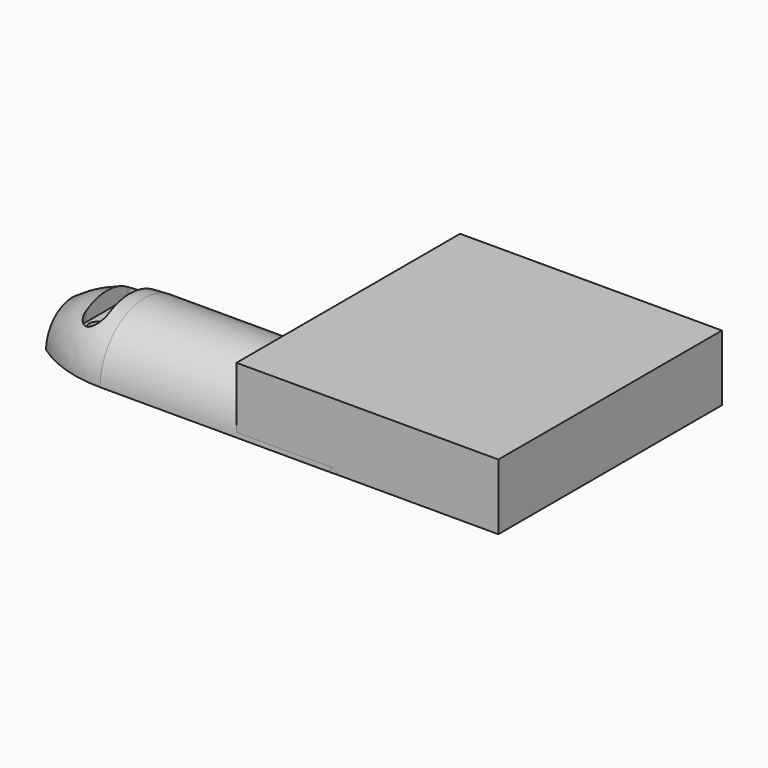
from build123d import *

# Parameters (mm, degrees)
SKETCH008_W         = 79.607547
SKETCH008_H         = 84.957516
PAD002_DEPTH        = 20
SKETCH009_W         = 73.187564
SKETCH009_H         = 77.253553
POCKET004_DEPTH     = 14
REVOLUTION_ANGLE    = -180
SKETCH001_W         = 35
SKETCH001_H         = 1.5
PAD_DEPTH           = 1
SKETCH002_W         = 35
SKETCH002_H         = 1.5
POCKET_DEPTH        = 1
SKETCH003_R         = 4
PAD001_DEPTH        = 8
SKETCH004_W         = 1
SKETCH004_H         = 9.534319
REVOLUTION001_ANGLE = -180
SKETCH005_R         = 1
POCKET001_DEPTH     = 7
SKETCH006_R         = 2.5
POCKET002_DEPTH     = 10
POCKET003_DEPTH     = 10


with BuildPart() as body001:
    # Sketch008 → Pad002 (new body)
    with BuildSketch(Plane.XY):
        with Locations((46.254125, -8.464853)):
            Rectangle(SKETCH008_W, SKETCH008_H)
    extrude(amount=PAD002_DEPTH)

    # Sketch009 → Pocket004 (cut)
    with BuildSketch(Plane.XY):
        with Locations((46.664473, -8.115113)):
            Rectangle(SKETCH009_W, SKETCH009_H)
    extrude(amount=POCKET004_DEPTH, mode=Mode.SUBTRACT)


with BuildPart() as body001_1:
    # Body001 placement: moved
    add(body001.part.moved(Location((0, 34, 0))))


with BuildPart() as fusion:
    # Sketch → Revolution (revolve)
    with BuildSketch(Plane.XY):
        with BuildLine():
            Line((-35, -17), (35, -17))
            ThreePointArc((35, -17), (46.543396, -15.207817), (57, -10))
            Line((57, -10), (52, -10))
            Line((52, -10), (52, -7.5))
            Line((52, -7.5), (50, -7.5))
            Line((50, -7.5), (50, -11.758585))
            ThreePointArc((48, -12.600664), (49.00633, -12.194658), (50, -11.758585))
            Line((48, -9.5), (48, -12.600664))
            Line((35, -9.5), (48, -9.5))
            Line((35, -14), (35, -9.5))
            Line((35, -14), (-35, -14))
            Line((-35, -14), (-35, -9.5))
            Line((-35, -9.5), (-48, -9.5))
            Line((-48, -9.5), (-48, -12.600664))
            ThreePointArc((-50, -11.758585), (-49.00633, -12.194658), (-48, -12.600664))
            Line((-50, -11.758585), (-50, -7.5))
            Line((-50, -7.5), (-52, -7.5))
            Line((-52, -7.5), (-52, -10))
            Line((-52, -10), (-57, -10))
            ThreePointArc((-57, -10), (-46.543396, -15.207817), (-35, -17))
        make_face()
    revolve(axis=Axis((0, 0, 0), (1, 0, 0)), revolution_arc=REVOLUTION_ANGLE)

    # Sketch001 → Pad (new body)
    with BuildSketch(Plane.XY):
        with Locations((17.5, 14.75)):
            Rectangle(SKETCH001_W, SKETCH001_H)
    pad = extrude(amount=-PAD_DEPTH)

    # Mirrored: Pad across XZ
    add(pad.mirror(Plane.XZ))

    # Sketch002 → Pocket (cut)
    with BuildSketch(Plane.XY):
        with Locations((-17.5, 14.75)):
            Rectangle(SKETCH002_W, SKETCH002_H)
    pocket = extrude(amount=POCKET_DEPTH, mode=Mode.SUBTRACT)

    # Mirrored001: Pocket across XZ
    add(pocket.mirror(Plane.XZ), mode=Mode.SUBTRACT)

    # Sketch003 → Pad001 (join)
    with BuildSketch(Plane.XY):
        with Locations((43, -8)):
            Circle(SKETCH003_R)
        with Locations((-43, -8)):
            Circle(SKETCH003_R)
        with Locations((-43, 8)):
            Circle(SKETCH003_R)
        with Locations((43, 8)):
            Circle(SKETCH003_R)
    extrude(amount=PAD001_DEPTH)

    # Sketch004 → Revolution001 (revolve)
    with BuildSketch(Plane.XY):
        with Locations((43, -7.767159)):
            Rectangle(SKETCH004_W, SKETCH004_H)
    revolution001 = revolve(axis=Axis((0, 0, 0), (1, 0, 0)), revolution_arc=REVOLUTION001_ANGLE)

    # Mirrored002: Revolution001 across YZ
    add(revolution001.mirror(Plane.YZ))

    # Sketch005 → Pocket001 (cut)
    with BuildSketch(Plane.XY):
        with Locations((43, 8)):
            Circle(SKETCH005_R)
        with Locations((43, -8)):
            Circle(SKETCH005_R)
    extrude(amount=POCKET001_DEPTH, mode=Mode.SUBTRACT)

    # Sketch006 → Pocket002 (cut)
    with BuildSketch(Plane.XY):
        with Locations((-43, 8)):
            Circle(SKETCH006_R)
        with Locations((-43, -8)):
            Circle(SKETCH006_R)
    extrude(amount=POCKET002_DEPTH, mode=Mode.SUBTRACT)

    # Sketch007 → Pocket003 (cut)
    with BuildSketch(Plane.XY.offset(20)):
        with BuildLine():
            ThreePointArc((-39.5, 8), (-43, 11.5), (-46.5, 8))
            Line((-46.5, 8), (-46.5, -8))
            ThreePointArc((-46.5, -8), (-43, -11.5), (-39.5, -8))
            Line((-39.5, 8), (-39.5, -8))
        make_face()
    extrude(amount=-POCKET003_DEPTH, mode=Mode.SUBTRACT)

    # Fusion: union Body001
    add(body001_1.part)


solid = fusion.part
